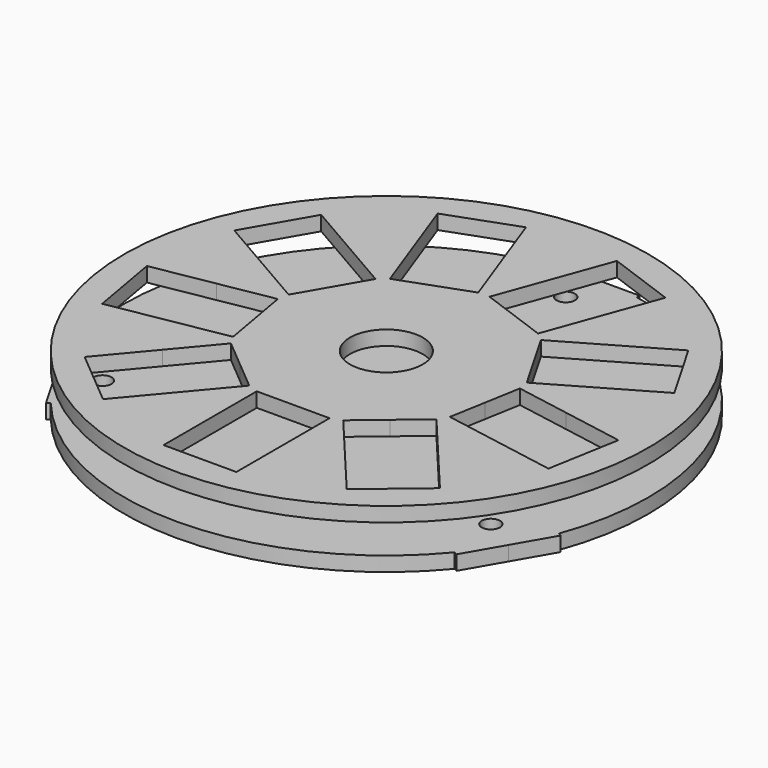
from build123d import *

# Parameters (mm, degrees)
F0_R     = 7.9375
F1_DEPTH = 12.7
F2_R     = 7.9375
F3_DEPTH = 12.7
F6_DEPTH = 12.7
F7_R     = 31.75
F8_DEPTH = 25.4


with BuildPart() as f1:
    # F0 (on Top) → F1 (new body)
    with BuildSketch(Plane.XY):
        with BuildLine():
            Line((-38.1, 225.4026397361), (-38.1, 147.5606654905))
            ThreePointArc((-38.1, 147.5606654905), (-131.9822715367, 76.2), (-146.8412849141, -40.7847648611))
            Line((-146.8412849141, -40.7847648611), (-214.2544120915, -79.7057519839))
            ThreePointArc((-214.2544120915, -79.7057519839), (-206.8384260613, -97.343851909), (-197.9734085849, -114.2999977833))
            ThreePointArc((-197.9734085849, -114.2999977833), (-187.7214631468, -130.4554033915), (-176.1544120915, -145.6968877522))
            Line((-176.1544120915, -145.6968877522), (-108.7412849141, -106.7759006294))
            ThreePointArc((-108.7412849141, -106.7759006294), (0, -152.4), (108.7412849141, -106.7759006294))
            Line((108.7412849141, -106.7759006294), (176.1544120915, -145.6968877522))
            ThreePointArc((176.1544120915, -145.6968877522), (187.7214632552, -130.4554032355), (197.973408775, -114.2999974542))
            ThreePointArc((197.973408775, -114.2999974542), (206.8384261422, -97.343851737), (214.2544120915, -79.7057519839))
            Line((214.2544120915, -79.7057519839), (146.8412849141, -40.7847648611))
            ThreePointArc((146.8412849141, -40.7847648611), (131.9822715367, 76.2), (38.1, 147.5606654905))
            Line((38.1, 147.5606654905), (38.1, 225.4026397361))
            ThreePointArc((38.1, 225.4026397361), (19.1169634699, 227.7992574784), (7.425e-07, 228.6))
            ThreePointArc((7.425e-07, 228.6), (-19.11696273, 227.7992575405), (-38.1, 225.4026397361))
        make_face()
        with Locations((-169.3772484722, -97.79)):
            Circle(F0_R, mode=Mode.SUBTRACT)
        with Locations((169.3772484722, -97.79)):
            Circle(F0_R, mode=Mode.SUBTRACT)
        with Locations((0, 195.58)):
            Circle(F0_R, mode=Mode.SUBTRACT)
        with BuildLine():
            ThreePointArc((-146.8412849141, -40.7847648611), (-131.9822715367, 76.2), (-38.1, 147.5606654905))
            Line((-38.1, 147.5606654905), (-38.1, 225.4026397361))
            ThreePointArc((-38.1, 225.4026397361), (-197.9734073051, 114.3), (-214.2544120915, -79.7057519839))
            Line((-214.2544120915, -79.7057519839), (-146.8412849141, -40.7847648611))
        make_face()
        with BuildLine():
            Line((-38.1, 228.6), (-38.1, 225.4026397361))
            ThreePointArc((-38.1, 225.4026397361), (-19.11696273, 227.7992575405), (7.425e-07, 228.6))
            Line((7.425e-07, 228.6), (-38.1, 228.6))
        make_face()
        with BuildLine():
            ThreePointArc((-197.9734085849, -114.2999977833), (-206.8384260613, -97.343851909), (-214.2544120915, -79.7057519839))
            Line((-214.2544120915, -79.7057519839), (-217.0234073051, -81.3044321158))
            Line((-217.0234073051, -81.3044321158), (-197.9734085849, -114.2999977833))
        make_face()
        with BuildLine():
            Line((38.1, 228.6), (7.425e-07, 228.6))
            ThreePointArc((7.425e-07, 228.6), (19.1169634699, 227.7992574784), (38.1, 225.4026397361))
            Line((38.1, 225.4026397361), (38.1, 228.6))
        make_face()
        with BuildLine():
            ThreePointArc((-176.1544120915, -145.6968877522), (-187.7214631468, -130.4554033915), (-197.9734085849, -114.2999977833))
            Line((-197.9734085849, -114.2999977833), (-178.9234073051, -147.2955678842))
            Line((-178.9234073051, -147.2955678842), (-176.1544120915, -145.6968877522))
        make_face()
        with BuildLine():
            ThreePointArc((228.6, 0), (174.5961339778, 147.5606654905), (38.1, 225.4026397361))
            Line((38.1, 225.4026397361), (38.1, 147.5606654905))
            ThreePointArc((38.1, 147.5606654905), (131.9822715367, 76.2), (146.8412849141, -40.7847648611))
            Line((146.8412849141, -40.7847648611), (214.2544120915, -79.7057519839))
            ThreePointArc((214.2544120915, -79.7057519839), (224.9850201726, -40.4932179252), (228.6, 0))
        make_face()
        with BuildLine():
            Line((-108.7412849141, -106.7759006294), (-176.1544120915, -145.6968877522))
            ThreePointArc((-176.1544120915, -145.6968877522), (0, -228.6), (176.1544120915, -145.6968877522))
            Line((176.1544120915, -145.6968877522), (108.7412849141, -106.7759006294))
            ThreePointArc((108.7412849141, -106.7759006294), (0, -152.4), (-108.7412849141, -106.7759006294))
        make_face()
        with BuildLine():
            ThreePointArc((197.973408775, -114.2999974542), (187.7214632552, -130.4554032355), (176.1544120915, -145.6968877522))
            Line((176.1544120915, -145.6968877522), (178.9234073051, -147.2955678842))
            Line((178.9234073051, -147.2955678842), (197.973408775, -114.2999974542))
        make_face()
        with BuildLine():
            Line((217.0234073051, -81.3044321158), (214.2544120915, -79.7057519839))
            ThreePointArc((214.2544120915, -79.7057519839), (206.8384261422, -97.343851737), (197.973408775, -114.2999974542))
            Line((197.973408775, -114.2999974542), (217.0234073051, -81.3044321158))
        make_face()
    extrude(amount=F1_DEPTH)

    # F2 (on face) → F3 (join)
    with BuildSketch(Plane.XY.offset(12.7)):
        with BuildLine():
            ThreePointArc((214.2544120915, -79.7057519839), (224.9850201726, -40.4932179252), (228.6, 0))
            ThreePointArc((228.6, 0), (174.5961339778, 147.5606654905), (38.1, 225.4026397361))
            ThreePointArc((38.1, 225.4026397361), (19.1169634699, 227.7992574784), (7.425e-07, 228.6))
            ThreePointArc((7.425e-07, 228.6), (-19.11696273, 227.7992575405), (-38.1, 225.4026397361))
            ThreePointArc((-38.1, 225.4026397361), (-197.9734073051, 114.3), (-214.2544120915, -79.7057519839))
            ThreePointArc((-214.2544120915, -79.7057519839), (-206.8384257006, -97.3438526754), (-197.9734077379, -114.2999992504))
            ThreePointArc((-197.9734077379, -114.2999992504), (-187.7214626634, -130.4554040871), (-176.1544120915, -145.6968877522))
            ThreePointArc((-176.1544120915, -145.6968877522), (0, -228.6), (176.1544120915, -145.6968877522))
            ThreePointArc((176.1544120915, -145.6968877522), (187.7214619736, -130.4554050796), (197.9734065292, -114.3000013439))
            ThreePointArc((197.9734065292, -114.3000013439), (206.8384251859, -97.343853769), (214.2544120915, -79.7057519839))
        make_face()
        with Locations((-169.3772484722, -97.79)):
            Circle(F2_R, mode=Mode.SUBTRACT)
        with Locations((169.3772484722, -97.79)):
            Circle(F2_R, mode=Mode.SUBTRACT)
        Polygon((56.9597219464, 89.9039963502), (26.2960149824, 98.138063951), (-4.3721300023, 106.355568633), (21.9238849802, 204.4936325839), (83.2601749495, 188.0586232199), (56.9641599671, 89.920559269), align=None, mode=Mode.SUBTRACT)
        with Locations((0, 195.58)):
            Circle(F2_R, mode=Mode.SUBTRACT)
        with BuildLine():
            ThreePointArc((214.2544120915, -79.7057519839), (224.9850201726, -40.4932179252), (228.6, 0))
            ThreePointArc((228.6, 0), (174.5961339778, 147.5606654905), (38.1, 225.4026397361))
            ThreePointArc((38.1, 225.4026397361), (19.1169634699, 227.7992574784), (7.425e-07, 228.6))
            ThreePointArc((7.425e-07, 228.6), (-19.11696273, 227.7992575405), (-38.1, 225.4026397361))
            ThreePointArc((-38.1, 225.4026397361), (-197.9734073051, 114.3), (-214.2544120915, -79.7057519839))
            ThreePointArc((-214.2544120915, -79.7057519839), (-206.8384257006, -97.3438526754), (-197.9734077379, -114.2999992504))
            ThreePointArc((-197.9734077379, -114.2999992504), (-187.7214626634, -130.4554040871), (-176.1544120915, -145.6968877522))
            ThreePointArc((-176.1544120915, -145.6968877522), (0, -228.6), (176.1544120915, -145.6968877522))
            ThreePointArc((176.1544120915, -145.6968877522), (187.7214619736, -130.4554050796), (197.9734065292, -114.3000013439))
            ThreePointArc((197.9734065292, -114.3000013439), (206.8384251859, -97.343853769), (214.2544120915, -79.7057519839))
        make_face()
        with Locations((-169.3772484722, -97.79)):
            Circle(F2_R, mode=Mode.SUBTRACT)
        with Locations((169.3772484722, -97.79)):
            Circle(F2_R, mode=Mode.SUBTRACT)
        Polygon((56.9597219464, 89.9039963502), (26.2960149824, 98.138063951), (-4.3721300023, 106.355568633), (21.9238849802, 204.4936325839), (83.2601749495, 188.0586232199), (56.9641599671, 89.920559269), align=None, mode=Mode.SUBTRACT)
        with Locations((0, 195.58)):
            Circle(F2_R, mode=Mode.SUBTRACT)
        with BuildLine():
            ThreePointArc((214.2544120915, -79.7057519839), (224.9850201726, -40.4932179252), (228.6, 0))
            ThreePointArc((228.6, 0), (174.5961339778, 147.5606654905), (38.1, 225.4026397361))
            ThreePointArc((38.1, 225.4026397361), (19.1169634699, 227.7992574784), (7.425e-07, 228.6))
            ThreePointArc((7.425e-07, 228.6), (-19.11696273, 227.7992575405), (-38.1, 225.4026397361))
            ThreePointArc((-38.1, 225.4026397361), (-197.9734073051, 114.3), (-214.2544120915, -79.7057519839))
            ThreePointArc((-214.2544120915, -79.7057519839), (-206.8384257006, -97.3438526754), (-197.9734077379, -114.2999992504))
            ThreePointArc((-197.9734077379, -114.2999992504), (-187.7214626634, -130.4554040871), (-176.1544120915, -145.6968877522))
            ThreePointArc((-176.1544120915, -145.6968877522), (0, -228.6), (176.1544120915, -145.6968877522))
            ThreePointArc((176.1544120915, -145.6968877522), (187.7214619736, -130.4554050796), (197.9734065292, -114.3000013439))
            ThreePointArc((197.9734065292, -114.3000013439), (206.8384251859, -97.343853769), (214.2544120915, -79.7057519839))
        make_face()
        with Locations((-169.3772484722, -97.79)):
            Circle(F2_R, mode=Mode.SUBTRACT)
        with Locations((169.3772484722, -97.79)):
            Circle(F2_R, mode=Mode.SUBTRACT)
        Polygon((56.9597219464, 89.9039963502), (26.2960149824, 98.138063951), (-4.3721300023, 106.355568633), (21.9238849802, 204.4936325839), (83.2601749495, 188.0586232199), (56.9641599671, 89.920559269), align=None, mode=Mode.SUBTRACT)
        with Locations((0, 195.58)):
            Circle(F2_R, mode=Mode.SUBTRACT)
        with BuildLine():
            ThreePointArc((214.2544120915, -79.7057519839), (224.9850201726, -40.4932179252), (228.6, 0))
            ThreePointArc((228.6, 0), (174.5961339778, 147.5606654905), (38.1, 225.4026397361))
            ThreePointArc((38.1, 225.4026397361), (19.1169634699, 227.7992574784), (7.425e-07, 228.6))
            ThreePointArc((7.425e-07, 228.6), (-19.11696273, 227.7992575405), (-38.1, 225.4026397361))
            ThreePointArc((-38.1, 225.4026397361), (-197.9734073051, 114.3), (-214.2544120915, -79.7057519839))
            ThreePointArc((-214.2544120915, -79.7057519839), (-206.8384257006, -97.3438526754), (-197.9734077379, -114.2999992504))
            ThreePointArc((-197.9734077379, -114.2999992504), (-187.7214626634, -130.4554040871), (-176.1544120915, -145.6968877522))
            ThreePointArc((-176.1544120915, -145.6968877522), (0, -228.6), (176.1544120915, -145.6968877522))
            ThreePointArc((176.1544120915, -145.6968877522), (187.7214619736, -130.4554050796), (197.9734065292, -114.3000013439))
            ThreePointArc((197.9734065292, -114.3000013439), (206.8384251859, -97.343853769), (214.2544120915, -79.7057519839))
        make_face()
        with Locations((-169.3772484722, -97.79)):
            Circle(F2_R, mode=Mode.SUBTRACT)
        with Locations((169.3772484722, -97.79)):
            Circle(F2_R, mode=Mode.SUBTRACT)
        Polygon((56.9597219464, 89.9039963502), (26.2960149824, 98.138063951), (-4.3721300023, 106.355568633), (21.9238849802, 204.4936325839), (83.2601749495, 188.0586232199), (56.9641599671, 89.920559269), align=None, mode=Mode.SUBTRACT)
        with Locations((0, 195.58)):
            Circle(F2_R, mode=Mode.SUBTRACT)
        with BuildLine():
            ThreePointArc((214.2544120915, -79.7057519839), (224.9850201726, -40.4932179252), (228.6, 0))
            ThreePointArc((228.6, 0), (174.5961339778, 147.5606654905), (38.1, 225.4026397361))
            ThreePointArc((38.1, 225.4026397361), (19.1169634699, 227.7992574784), (7.425e-07, 228.6))
            ThreePointArc((7.425e-07, 228.6), (-19.11696273, 227.7992575405), (-38.1, 225.4026397361))
            ThreePointArc((-38.1, 225.4026397361), (-197.9734073051, 114.3), (-214.2544120915, -79.7057519839))
            ThreePointArc((-214.2544120915, -79.7057519839), (-206.8384257006, -97.3438526754), (-197.9734077379, -114.2999992504))
            ThreePointArc((-197.9734077379, -114.2999992504), (-187.7214626634, -130.4554040871), (-176.1544120915, -145.6968877522))
            ThreePointArc((-176.1544120915, -145.6968877522), (0, -228.6), (176.1544120915, -145.6968877522))
            ThreePointArc((176.1544120915, -145.6968877522), (187.7214619736, -130.4554050796), (197.9734065292, -114.3000013439))
            ThreePointArc((197.9734065292, -114.3000013439), (206.8384251859, -97.343853769), (214.2544120915, -79.7057519839))
        make_face()
        with Locations((-169.3772484722, -97.79)):
            Circle(F2_R, mode=Mode.SUBTRACT)
        with Locations((169.3772484722, -97.79)):
            Circle(F2_R, mode=Mode.SUBTRACT)
        Polygon((56.9597219464, 89.9039963502), (26.2960149824, 98.138063951), (-4.3721300023, 106.355568633), (21.9238849802, 204.4936325839), (83.2601749495, 188.0586232199), (56.9641599671, 89.920559269), align=None, mode=Mode.SUBTRACT)
        with Locations((0, 195.58)):
            Circle(F2_R, mode=Mode.SUBTRACT)
        with BuildLine():
            ThreePointArc((214.2544120915, -79.7057519839), (224.9850201726, -40.4932179252), (228.6, 0))
            ThreePointArc((228.6, 0), (174.5961339778, 147.5606654905), (38.1, 225.4026397361))
            ThreePointArc((38.1, 225.4026397361), (19.1169634699, 227.7992574784), (7.425e-07, 228.6))
            ThreePointArc((7.425e-07, 228.6), (-19.11696273, 227.7992575405), (-38.1, 225.4026397361))
            ThreePointArc((-38.1, 225.4026397361), (-197.9734073051, 114.3), (-214.2544120915, -79.7057519839))
            ThreePointArc((-214.2544120915, -79.7057519839), (-206.8384257006, -97.3438526754), (-197.9734077379, -114.2999992504))
            ThreePointArc((-197.9734077379, -114.2999992504), (-187.7214626634, -130.4554040871), (-176.1544120915, -145.6968877522))
            ThreePointArc((-176.1544120915, -145.6968877522), (0, -228.6), (176.1544120915, -145.6968877522))
            ThreePointArc((176.1544120915, -145.6968877522), (187.7214619736, -130.4554050796), (197.9734065292, -114.3000013439))
            ThreePointArc((197.9734065292, -114.3000013439), (206.8384251859, -97.343853769), (214.2544120915, -79.7057519839))
        make_face()
        with Locations((-169.3772484722, -97.79)):
            Circle(F2_R, mode=Mode.SUBTRACT)
        with Locations((169.3772484722, -97.79)):
            Circle(F2_R, mode=Mode.SUBTRACT)
        Polygon((56.9597219464, 89.9039963502), (26.2960149824, 98.138063951), (-4.3721300023, 106.355568633), (21.9238849802, 204.4936325839), (83.2601749495, 188.0586232199), (56.9641599671, 89.920559269), align=None, mode=Mode.SUBTRACT)
        with Locations((0, 195.58)):
            Circle(F2_R, mode=Mode.SUBTRACT)
        with BuildLine():
            ThreePointArc((214.2544120915, -79.7057519839), (224.9850201726, -40.4932179252), (228.6, 0))
            ThreePointArc((228.6, 0), (174.5961339778, 147.5606654905), (38.1, 225.4026397361))
            ThreePointArc((38.1, 225.4026397361), (19.1169634699, 227.7992574784), (7.425e-07, 228.6))
            ThreePointArc((7.425e-07, 228.6), (-19.11696273, 227.7992575405), (-38.1, 225.4026397361))
            ThreePointArc((-38.1, 225.4026397361), (-197.9734073051, 114.3), (-214.2544120915, -79.7057519839))
            ThreePointArc((-214.2544120915, -79.7057519839), (-206.8384257006, -97.3438526754), (-197.9734077379, -114.2999992504))
            ThreePointArc((-197.9734077379, -114.2999992504), (-187.7214626634, -130.4554040871), (-176.1544120915, -145.6968877522))
            ThreePointArc((-176.1544120915, -145.6968877522), (0, -228.6), (176.1544120915, -145.6968877522))
            ThreePointArc((176.1544120915, -145.6968877522), (187.7214619736, -130.4554050796), (197.9734065292, -114.3000013439))
            ThreePointArc((197.9734065292, -114.3000013439), (206.8384251859, -97.343853769), (214.2544120915, -79.7057519839))
        make_face()
        with Locations((-169.3772484722, -97.79)):
            Circle(F2_R, mode=Mode.SUBTRACT)
        with Locations((169.3772484722, -97.79)):
            Circle(F2_R, mode=Mode.SUBTRACT)
        Polygon((56.9597219464, 89.9039963502), (26.2960149824, 98.138063951), (-4.3721300023, 106.355568633), (21.9238849802, 204.4936325839), (83.2601749495, 188.0586232199), (56.9641599671, 89.920559269), align=None, mode=Mode.SUBTRACT)
        with Locations((0, 195.58)):
            Circle(F2_R, mode=Mode.SUBTRACT)
        with BuildLine():
            ThreePointArc((214.2544120915, -79.7057519839), (224.9850201726, -40.4932179252), (228.6, 0))
            ThreePointArc((228.6, 0), (174.5961339778, 147.5606654905), (38.1, 225.4026397361))
            ThreePointArc((38.1, 225.4026397361), (19.1169634699, 227.7992574784), (7.425e-07, 228.6))
            ThreePointArc((7.425e-07, 228.6), (-19.11696273, 227.7992575405), (-38.1, 225.4026397361))
            ThreePointArc((-38.1, 225.4026397361), (-197.9734073051, 114.3), (-214.2544120915, -79.7057519839))
            ThreePointArc((-214.2544120915, -79.7057519839), (-206.8384257006, -97.3438526754), (-197.9734077379, -114.2999992504))
            ThreePointArc((-197.9734077379, -114.2999992504), (-187.7214626634, -130.4554040871), (-176.1544120915, -145.6968877522))
            ThreePointArc((-176.1544120915, -145.6968877522), (0, -228.6), (176.1544120915, -145.6968877522))
            ThreePointArc((176.1544120915, -145.6968877522), (187.7214619736, -130.4554050796), (197.9734065292, -114.3000013439))
            ThreePointArc((197.9734065292, -114.3000013439), (206.8384251859, -97.343853769), (214.2544120915, -79.7057519839))
        make_face()
        with Locations((-169.3772484722, -97.79)):
            Circle(F2_R, mode=Mode.SUBTRACT)
        with Locations((169.3772484722, -97.79)):
            Circle(F2_R, mode=Mode.SUBTRACT)
        Polygon((56.9597219464, 89.9039963502), (26.2960149824, 98.138063951), (-4.3721300023, 106.355568633), (21.9238849802, 204.4936325839), (83.2601749495, 188.0586232199), (56.9641599671, 89.920559269), align=None, mode=Mode.SUBTRACT)
        with Locations((0, 195.58)):
            Circle(F2_R, mode=Mode.SUBTRACT)
        with BuildLine():
            ThreePointArc((214.2544120915, -79.7057519839), (224.9850201726, -40.4932179252), (228.6, 0))
            ThreePointArc((228.6, 0), (174.5961339778, 147.5606654905), (38.1, 225.4026397361))
            ThreePointArc((38.1, 225.4026397361), (19.1169634699, 227.7992574784), (7.425e-07, 228.6))
            ThreePointArc((7.425e-07, 228.6), (-19.11696273, 227.7992575405), (-38.1, 225.4026397361))
            ThreePointArc((-38.1, 225.4026397361), (-197.9734073051, 114.3), (-214.2544120915, -79.7057519839))
            ThreePointArc((-214.2544120915, -79.7057519839), (-206.8384257006, -97.3438526754), (-197.9734077379, -114.2999992504))
            ThreePointArc((-197.9734077379, -114.2999992504), (-187.7214626634, -130.4554040871), (-176.1544120915, -145.6968877522))
            ThreePointArc((-176.1544120915, -145.6968877522), (0, -228.6), (176.1544120915, -145.6968877522))
            ThreePointArc((176.1544120915, -145.6968877522), (187.7214619736, -130.4554050796), (197.9734065292, -114.3000013439))
            ThreePointArc((197.9734065292, -114.3000013439), (206.8384251859, -97.343853769), (214.2544120915, -79.7057519839))
        make_face()
        with Locations((-169.3772484722, -97.79)):
            Circle(F2_R, mode=Mode.SUBTRACT)
        with Locations((169.3772484722, -97.79)):
            Circle(F2_R, mode=Mode.SUBTRACT)
        Polygon((56.9597219464, 89.9039963502), (26.2960149824, 98.138063951), (-4.3721300023, 106.355568633), (21.9238849802, 204.4936325839), (83.2601749495, 188.0586232199), (56.9641599671, 89.920559269), align=None, mode=Mode.SUBTRACT)
        with Locations((0, 195.58)):
            Circle(F2_R, mode=Mode.SUBTRACT)
        with BuildLine():
            ThreePointArc((214.2544120915, -79.7057519839), (224.9850201726, -40.4932179252), (228.6, 0))
            ThreePointArc((228.6, 0), (174.5961339778, 147.5606654905), (38.1, 225.4026397361))
            ThreePointArc((38.1, 225.4026397361), (19.1169634699, 227.7992574784), (7.425e-07, 228.6))
            ThreePointArc((7.425e-07, 228.6), (-19.11696273, 227.7992575405), (-38.1, 225.4026397361))
            ThreePointArc((-38.1, 225.4026397361), (-197.9734073051, 114.3), (-214.2544120915, -79.7057519839))
            ThreePointArc((-214.2544120915, -79.7057519839), (-206.8384257006, -97.3438526754), (-197.9734077379, -114.2999992504))
            ThreePointArc((-197.9734077379, -114.2999992504), (-187.7214626634, -130.4554040871), (-176.1544120915, -145.6968877522))
            ThreePointArc((-176.1544120915, -145.6968877522), (0, -228.6), (176.1544120915, -145.6968877522))
            ThreePointArc((176.1544120915, -145.6968877522), (187.7214619736, -130.4554050796), (197.9734065292, -114.3000013439))
            ThreePointArc((197.9734065292, -114.3000013439), (206.8384251859, -97.343853769), (214.2544120915, -79.7057519839))
        make_face()
        with Locations((-169.3772484722, -97.79)):
            Circle(F2_R, mode=Mode.SUBTRACT)
        with Locations((169.3772484722, -97.79)):
            Circle(F2_R, mode=Mode.SUBTRACT)
        Polygon((56.9597219464, 89.9039963502), (26.2960149824, 98.138063951), (-4.3721300023, 106.355568633), (21.9238849802, 204.4936325839), (83.2601749495, 188.0586232199), (56.9641599671, 89.920559269), align=None, mode=Mode.SUBTRACT)
        with Locations((0, 195.58)):
            Circle(F2_R, mode=Mode.SUBTRACT)
        with BuildLine():
            ThreePointArc((214.2544120915, -79.7057519839), (224.9850201726, -40.4932179252), (228.6, 0))
            ThreePointArc((228.6, 0), (174.5961339778, 147.5606654905), (38.1, 225.4026397361))
            ThreePointArc((38.1, 225.4026397361), (19.1169634699, 227.7992574784), (7.425e-07, 228.6))
            ThreePointArc((7.425e-07, 228.6), (-19.11696273, 227.7992575405), (-38.1, 225.4026397361))
            ThreePointArc((-38.1, 225.4026397361), (-197.9734073051, 114.3), (-214.2544120915, -79.7057519839))
            ThreePointArc((-214.2544120915, -79.7057519839), (-206.8384257006, -97.3438526754), (-197.9734077379, -114.2999992504))
            ThreePointArc((-197.9734077379, -114.2999992504), (-187.7214626634, -130.4554040871), (-176.1544120915, -145.6968877522))
            ThreePointArc((-176.1544120915, -145.6968877522), (0, -228.6), (176.1544120915, -145.6968877522))
            ThreePointArc((176.1544120915, -145.6968877522), (187.7214619736, -130.4554050796), (197.9734065292, -114.3000013439))
            ThreePointArc((197.9734065292, -114.3000013439), (206.8384251859, -97.343853769), (214.2544120915, -79.7057519839))
        make_face()
        with Locations((-169.3772484722, -97.79)):
            Circle(F2_R, mode=Mode.SUBTRACT)
        with Locations((169.3772484722, -97.79)):
            Circle(F2_R, mode=Mode.SUBTRACT)
        Polygon((56.9597219464, 89.9039963502), (26.2960149824, 98.138063951), (-4.3721300023, 106.355568633), (21.9238849802, 204.4936325839), (83.2601749495, 188.0586232199), (56.9641599671, 89.920559269), align=None, mode=Mode.SUBTRACT)
        with Locations((0, 195.58)):
            Circle(F2_R, mode=Mode.SUBTRACT)
        Polygon((-4.3721300023, 106.355568633), (26.2960149824, 98.138063951), (56.9597219464, 89.9039963502), (56.9641599671, 89.920559269), (83.2601749495, 188.0586232199), (21.9238849802, 204.4936325839), align=None)
    extrude(amount=-F3_DEPTH)


with BuildPart() as f6:
    # F5 (on offset) → F6 (new body)
    with BuildSketch(Plane.XY.offset(38.1)):
        with BuildLine():
            ThreePointArc((0, -228.6), (161.6446101792, -161.6446101792), (228.6, 0))
            ThreePointArc((228.6, 0), (-96.6105346339, 207.1819601166), (-146.9412475743, -175.117759697))
            Line((-146.9412475743, -175.117759697), (-130.6144422883, -155.6602308418))
            Line((-130.6144422883, -155.6602308418), (-154.9363533573, -135.2517242342))
            Line((-154.9363533573, -135.2517242342), (-120.1332747405, -93.7750302593))
            ThreePointArc((-120.1332747405, -93.7750302593), (-131.9822715367, -76.2), (-141.2781958154, -57.1509526354))
            Line((-141.2781958154, -57.1509526354), (-194.5996057712, -66.5529558601))
            Line((-194.5996057712, -66.5529558601), (-205.626265053, -4.0176635438))
            Line((-205.626265053, -4.0176635438), (-152.3048550973, 5.3843396808))
            ThreePointArc((-152.3048550973, 5.3843396808), (-150.0847015591, 26.4639822764), (-144.9613010741, 47.0317041037))
            Line((-144.9613010741, 47.0317041037), (-191.851362049, 74.1036934298))
            Line((-191.851362049, 74.1036934298), (-160.101362049, 129.0963065702))
            Line((-160.101362049, 129.0963065702), (-113.2113010741, 102.024317244))
            ThreePointArc((-113.2113010741, 102.024317244), (-97.9608317162, 116.7451731313), (-80.8154024948, 129.2077037935))
            Line((-80.8154024948, 129.2077037935), (-99.3337338337, 180.0864009931))
            Line((-99.3337338337, 180.0864009931), (-39.6632524138, 201.8046800943))
            Line((-39.6632524138, 201.8046800943), (-21.1449210749, 150.9259828947))
            ThreePointArc((-21.1449210749, 150.9259828947), (0, 152.4), (21.1449210749, 150.9259828947))
            Line((21.1449210749, 150.9259828947), (39.6632524138, 201.8046800943))
            Line((39.6632524138, 201.8046800943), (99.3337338337, 180.0864009931))
            Line((99.3337338337, 180.0864009931), (80.8154024948, 129.2077037935))
            ThreePointArc((80.8154024948, 129.2077037935), (97.9608317162, 116.7451731313), (113.2113010741, 102.024317244))
            Line((113.2113010741, 102.024317244), (160.101362049, 129.0963065702))
            Line((160.101362049, 129.0963065702), (191.851362049, 74.1036934298))
            Line((191.851362049, 74.1036934298), (144.9613010741, 47.0317041037))
            ThreePointArc((144.9613010741, 47.0317041037), (150.0847015591, 26.4639822764), (152.3048550973, 5.3843396808))
            Line((152.3048550973, 5.3843396808), (205.626265053, -4.0176635438))
            Line((205.626265053, -4.0176635438), (194.5996057712, -66.5529558601))
            Line((194.5996057712, -66.5529558601), (141.2781958154, -57.1509526354))
            ThreePointArc((141.2781958154, -57.1509526354), (131.9822715368, -76.2), (120.1332747405, -93.7750302593))
            Line((120.1332747405, -93.7750302593), (154.9363533573, -135.2517242342))
            Line((154.9363533573, -135.2517242342), (106.2925312193, -176.0687374493))
            Line((106.2925312193, -176.0687374493), (71.4894526024, -134.5920434744))
            ThreePointArc((71.4894526024, -134.5920434744), (52.1238698428, -143.2091554078), (31.75, -149.0560213477))
            Line((31.75, -149.0560213477), (31.75, -203.2))
            Line((31.75, -203.2), (0, -203.2))
            Line((0, -203.2), (0, -228.6))
        make_face()
        with BuildLine():
            Line((-130.6144422883, -155.6602308418), (-146.9412475743, -175.117759697))
            ThreePointArc((-146.9412475743, -175.117759697), (-78.1858047642, -214.8137331117), (0, -228.6))
            Line((0, -228.6), (0, -203.2))
            Line((0, -203.2), (-31.75, -203.2))
            Line((-31.75, -203.2), (-31.75, -149.0560213477))
            ThreePointArc((-31.75, -149.0560213477), (-52.1238698428, -143.2091554078), (-71.4894526024, -134.5920434744))
            Line((-71.4894526024, -134.5920434744), (-106.2925312193, -176.0687374493))
            Line((-106.2925312193, -176.0687374493), (-130.6144422883, -155.6602308418))
        make_face()
        with BuildLine():
            Line((0, 0), (-65.3072211442, -77.8301154209))
            Line((-65.3072211442, -77.8301154209), (-40.9853100751, -98.2386220284))
            Line((-40.9853100751, -98.2386220284), (-71.4894526024, -134.5920434744))
            ThreePointArc((-71.4894526024, -134.5920434744), (-52.1238698428, -143.2091554078), (-31.75, -149.0560213477))
            Line((-31.75, -149.0560213477), (-31.75, -101.6))
            Line((-31.75, -101.6), (0, -101.6))
            Line((0, -101.6), (0, 0))
        make_face()
        with BuildLine():
            Line((-89.6291322132, -57.4216088133), (-65.3072211442, -77.8301154209))
            Line((-65.3072211442, -77.8301154209), (0, 0))
            Line((0, 0), (0, -101.6))
            Line((0, -101.6), (31.75, -101.6))
            Line((31.75, -101.6), (31.75, -149.0560213477))
            ThreePointArc((31.75, -149.0560213477), (52.1238698428, -143.2091554078), (71.4894526024, -134.5920434744))
            Line((71.4894526024, -134.5920434744), (40.9853100751, -98.2386220284))
            Line((40.9853100751, -98.2386220284), (65.3072211442, -77.8301154209))
            Line((65.3072211442, -77.8301154209), (89.6291322132, -57.4216088133))
            Line((89.6291322132, -57.4216088133), (120.1332747405, -93.7750302593))
            ThreePointArc((120.1332747405, -93.7750302593), (131.9822715368, -76.2), (141.2781958154, -57.1509526354))
            Line((141.2781958154, -57.1509526354), (94.5431380651, -48.9103010091))
            Line((94.5431380651, -48.9103010091), (100.056467706, -17.642654851))
            Line((100.056467706, -17.642654851), (105.569797347, 13.6249913072))
            Line((105.569797347, 13.6249913072), (152.3048550973, 5.3843396808))
            ThreePointArc((152.3048550973, 5.3843396808), (150.0847015591, 26.4639822764), (144.9613010741, 47.0317041037))
            Line((144.9613010741, 47.0317041037), (103.8631810245, 23.3036934298))
            Line((103.8631810245, 23.3036934298), (87.9881810245, 50.8))
            Line((87.9881810245, 50.8), (72.1131810245, 78.2963065702))
            Line((72.1131810245, 78.2963065702), (113.2113010741, 102.024317244))
            ThreePointArc((113.2113010741, 102.024317244), (97.9608317162, 116.7451731313), (80.8154024948, 129.2077037935))
            Line((80.8154024948, 129.2077037935), (64.5844872718, 84.6136307213))
            Line((64.5844872718, 84.6136307213), (34.7492465619, 95.4727702718))
            Line((34.7492465619, 95.4727702718), (4.9140058519, 106.3319098224))
            Line((4.9140058519, 106.3319098224), (21.1449210749, 150.9259828947))
            ThreePointArc((21.1449210749, 150.9259828947), (0, 152.4), (-21.1449210749, 150.9259828947))
            Line((-21.1449210749, 150.9259828947), (-4.9140058519, 106.3319098224))
            Line((-4.9140058519, 106.3319098224), (-34.7492465619, 95.4727702718))
            Line((-34.7492465619, 95.4727702718), (-64.5844872718, 84.6136307213))
            Line((-64.5844872718, 84.6136307213), (-80.8154024948, 129.2077037935))
            ThreePointArc((-80.8154024948, 129.2077037935), (-97.9608317162, 116.7451731313), (-113.2113010741, 102.024317244))
            Line((-113.2113010741, 102.024317244), (-72.1131810245, 78.2963065702))
            Line((-72.1131810245, 78.2963065702), (-87.9881810245, 50.8))
            Line((-87.9881810245, 50.8), (-103.8631810245, 23.3036934298))
            Line((-103.8631810245, 23.3036934298), (-144.9613010741, 47.0317041037))
            ThreePointArc((-144.9613010741, 47.0317041037), (-150.0847015591, 26.4639822764), (-152.3048550973, 5.3843396808))
            Line((-152.3048550973, 5.3843396808), (-105.569797347, 13.6249913072))
            Line((-105.569797347, 13.6249913072), (-100.056467706, -17.642654851))
            Line((-100.056467706, -17.642654851), (-94.5431380651, -48.9103010091))
            Line((-94.5431380651, -48.9103010091), (-141.2781958154, -57.1509526354))
            ThreePointArc((-141.2781958154, -57.1509526354), (-131.9822715367, -76.2), (-120.1332747405, -93.7750302593))
            Line((-120.1332747405, -93.7750302593), (-89.6291322132, -57.4216088133))
        make_face()
    extrude(amount=F6_DEPTH)

    # F7 (on face) → F8 (cut)
    with BuildSketch(Plane.XY.offset(50.8)):
        Circle(F7_R)
    extrude(amount=-F8_DEPTH, mode=Mode.SUBTRACT)


solid = Compound([f1.part, f6.part])
